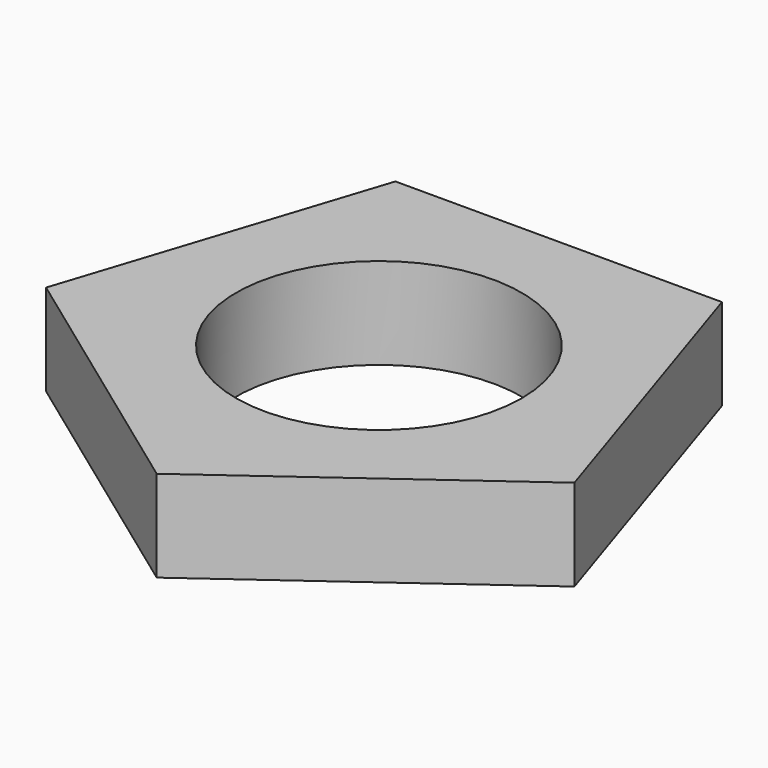
from build123d import *

# Parameters (mm, degrees)
F0_R     = 11.1125
F1_DEPTH = 7.112


with BuildPart() as f1:
    # F0 (on Top) → F1 (new body)
    with BuildSketch(Plane.XY):
        Polygon((12.7, 17.48005), (-12.7, 17.48005), (-20.549032, -6.676785), (0, -21.606531), (20.549032, -6.676785), align=None)
        Circle(F0_R, mode=Mode.SUBTRACT)
    extrude(amount=F1_DEPTH)


solid = f1.part
